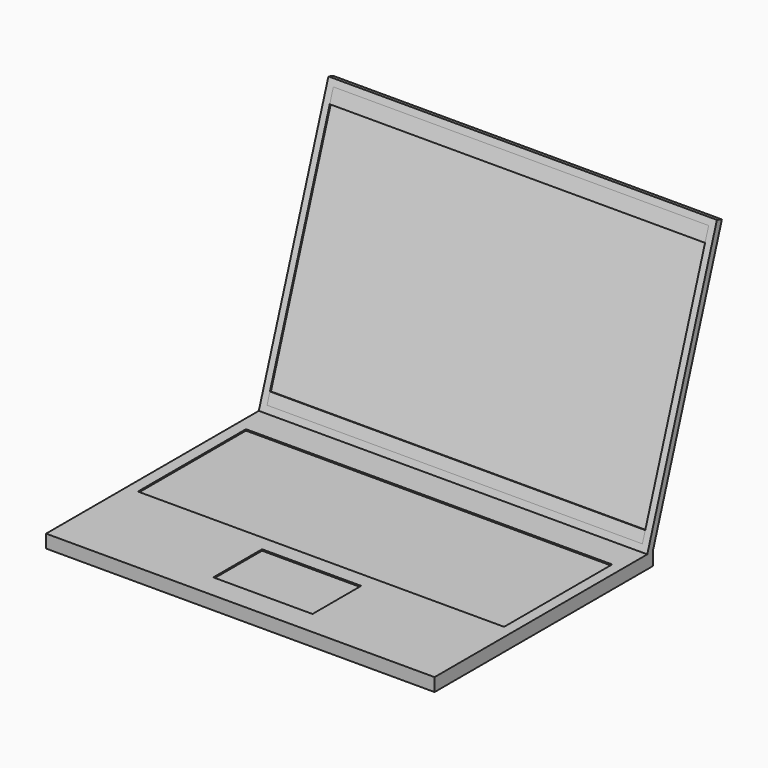
from build123d import *

# Parameters (mm, degrees)
F1_DEPTH = 374.65
F2_W     = 361.95
F2_H     = 250.825
F3_DEPTH = 1.27
F4_W     = 353.1723869964
F4_H     = 130.2746757865
F4_W_2   = 95.635175705
F4_H_2   = 58.7365608662
F5_DEPTH = 1.27
F6_W     = 361.95
F6_H     = 13.6301602835
F6_H_2   = 10.7992181372
F7_DEPTH = 1.27


with BuildPart() as f1:
    # F0 (on Right) → F1 (new body)
    with BuildSketch(Plane.YZ):
        Polygon((256.4296126366, 0), (0, 0), (0, -12.7), (263.525, -12.7), (263.525, 0), (263.1285922031, 0), align=None)
        Polygon((340.3758903778, 249.7968135873), (256.4296126366, 0), (263.1285922031, 0), (346.3950907053, 247.774011714), align=None)
    extrude(amount=F1_DEPTH)

    # F2 (on face) → F3 (cut)
    with BuildSketch(Plane(origin=(0, 230.4084066856, -77.4306438252), x_dir=(1, 0, 0), z_dir=(0, -0.9479055634, 0.3185514761))):
        with Locations((187.325, 213.4485316231)):
            Rectangle(F2_W, F2_H)
    extrude(amount=-F3_DEPTH, mode=Mode.SUBTRACT)

    # F4 (on face) → F5 (cut)
    with BuildSketch(Plane.XY):
        with Locations((187.7015107311, 161.9020588696)):
            Rectangle(F4_W, F4_H)
        with Locations((190.7136440277, 52.3357847705)):
            Rectangle(F4_W_2, F4_H_2)
    extrude(amount=-F5_DEPTH, mode=Mode.SUBTRACT)

    # F6 (on face) → F7 (join, through all)
    with BuildSketch(Plane(origin=(0, 231.6122467511, -77.8352041999), x_dir=(1, 0, 0), z_dir=(0, -0.9479055634, 0.3185514761))):
        with Locations((187.325, 332.0459514814)):
            Rectangle(F6_W, F6_H)
        with Locations((187.325, 93.4356406917)):
            Rectangle(F6_W, F6_H_2)
    extrude(amount=F7_DEPTH)


solid = f1.part
